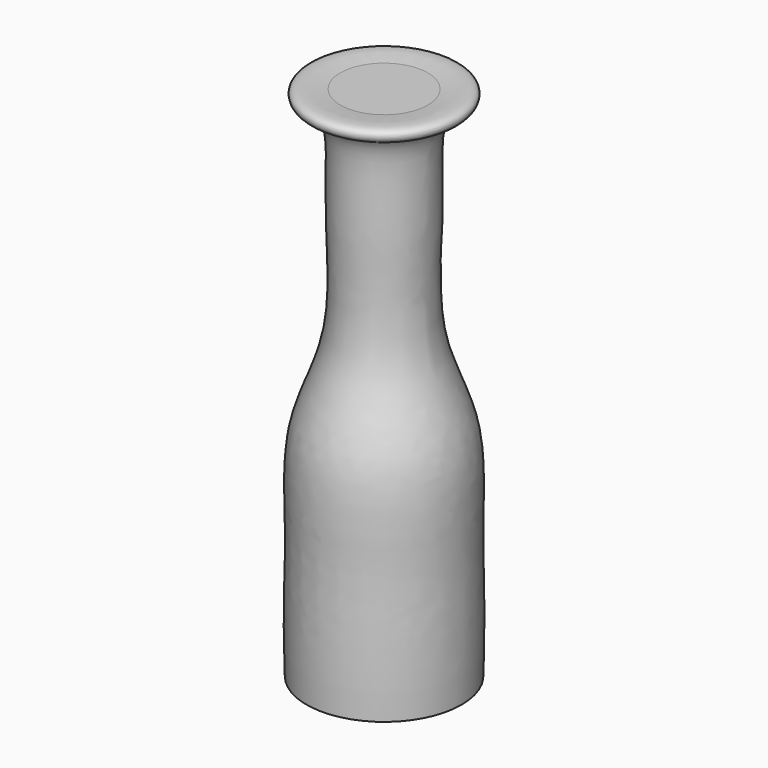
from build123d import *


with BuildPart() as f1:
    # F0 (on Front) → F1 (revolve)
    with BuildSketch(Plane.XZ):
        with BuildLine():
            Line((0, 127), (0, 0))
            Line((0, 0), (19.05, 0))
            add(Edge.make_bspline(
                [(19.05, 0), (19.5439486724, 14.786964498), (18.5091380496, 30.4992664726), (20.0843716529, 55.1080917177), (9.170962703, 73.6767806225), (12.1552420363, 102.512977824), (10.2891112637, 123.7262856233), (18.2922333795, 123.8573764163), (18.7087254381, 128.3282709377), (12.4962495056, 127.1668250231), (10.7431262732, 127)],
                knots=[0, 0, 0, 0, 0.1830939374, 0.3339631819, 0.4796307756, 0.6561709717, 0.7936900856, 0.8671748488, 0.9145653999, 1, 1, 1, 1], degree=3))
            Line((10.7431262732, 127), (0, 127))
        make_face()
    revolve(axis=Axis((0, 0, 63.5), (0, 0, 1)))


solid = f1.part
